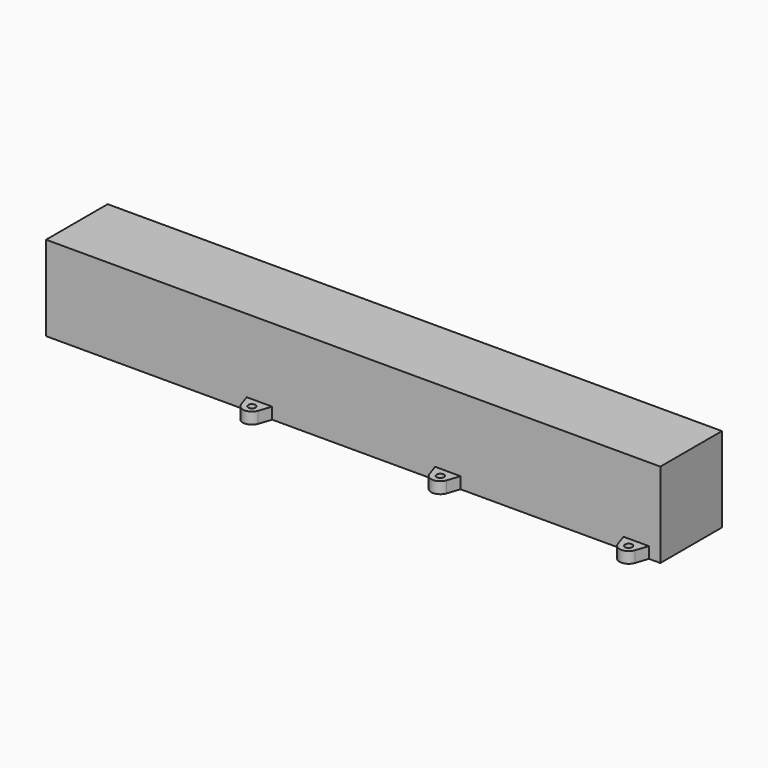
from build123d import *

# Parameters (mm, degrees)
F0_W     = 603.25
F0_H     = 75.6
F1_DEPTH = 83.4
F2_T     = -8.6
F4_START = -72.4
F3_R     = 3.6
F4_DEPTH = 11
F5_R     = 3.6
F6_DEPTH = 11.3


with BuildPart() as f1:
    # F0 (on Top) → F1 (new body)
    with BuildSketch(Plane.XY):
        Rectangle(F0_W, F0_H)
    extrude(amount=F1_DEPTH)

    # F2
    f2_openings = [f1.faces().sort_by_distance(p)[0] for p in [
        (0, 0, 0),
    ]]
    offset(amount=F2_T, openings=f2_openings)

    # F3 (on face) → F4 (join)
    with BuildSketch(Plane.XY.offset(83.4).offset(F4_START)):
        with BuildLine():
            Line((290.425, 37.8), (286.3608661331, 49.8865758556))
            ThreePointArc((286.3608661331, 49.8865758556), (277.925, 55.95), (269.4891338669, 49.8865758556))
            Line((269.4891338669, 49.8865758556), (265.425, 37.8))
            Line((265.425, 37.8), (290.425, 37.8))
        make_face()
        with Locations((277.925, 47.05)):
            Circle(F3_R, mode=Mode.SUBTRACT)
        with BuildLine():
            Line((290.425, -37.8), (265.425, -37.8))
            Line((265.425, -37.8), (269.4891338669, -49.8865758556))
            ThreePointArc((269.4891338669, -49.8865758556), (277.925, -55.95), (286.3608661331, -49.8865758556))
            Line((286.3608661331, -49.8865758556), (290.425, -37.8))
        make_face()
        with Locations((277.925, -47.05)):
            Circle(F3_R, mode=Mode.SUBTRACT)
    extrude(amount=-F4_DEPTH)

    # F5 (on face) → F6 (join)
    with BuildSketch(Plane(origin=(0, 0, 0), x_dir=(1, 0, 0), z_dir=(0, 0, -1))):
        with BuildLine():
            Line((80.425, 37.8), (105.425, 37.8))
            Line((105.425, 37.8), (101.3608661331, 49.8865758556))
            ThreePointArc((101.3608661331, 49.8865758556), (92.925, 55.95), (84.4891338669, 49.8865758556))
            Line((84.4891338669, 49.8865758556), (80.425, 37.8))
        make_face()
        with Locations((92.925, 47.05)):
            Circle(F5_R, mode=Mode.SUBTRACT)
        with BuildLine():
            Line((-104.575, 37.8), (-79.575, 37.8))
            Line((-79.575, 37.8), (-83.6391338669, 49.8865758556))
            ThreePointArc((-83.6391338669, 49.8865758556), (-92.075, 55.95), (-100.5108661331, 49.8865758556))
            Line((-100.5108661331, 49.8865758556), (-104.575, 37.8))
        make_face()
        with Locations((-92.075, 47.05)):
            Circle(F5_R, mode=Mode.SUBTRACT)
    extrude(amount=-F6_DEPTH)


solid = f1.part
